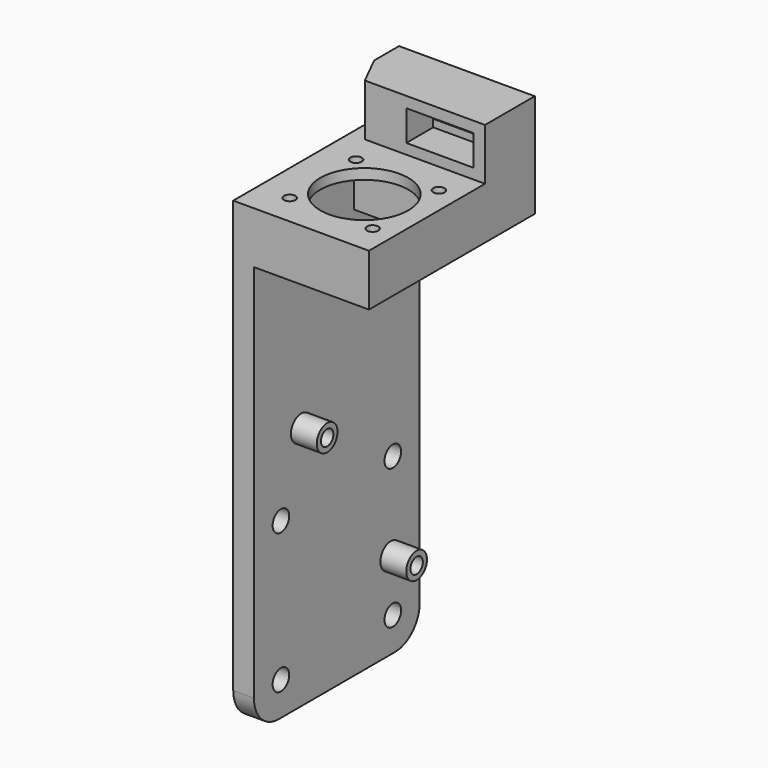
from build123d import *

# Parameters (mm, degrees)
PAD008_DEPTH    = 4
PAD009_DEPTH    = 22.2
SKETCH_R        = 2
SKETCH_R_2      = 1.5
POCKET_DEPTH    = 26.201
SKETCH016_W     = 20.2
SKETCH016_H     = 20.2
POCKET001_DEPTH = 8
SKETCH017_R     = 1.1
SKETCH017_R_2   = 8.5
POCKET002_DEPTH = 50
SKETCH018_W     = 5.9
SKETCH018_H     = 13
POCKET003_DEPTH = 6.5
SKETCH019_W     = 3
SKETCH019_H     = 13
POCKET004_DEPTH = 5.501
SKETCH020_W     = 3
SKETCH020_H     = 13
POCKET005_DEPTH = 40
SKETCH021_R     = 5
POCKET006_DEPTH = 3
FILLET_R        = 6
SKETCH022_R     = 2.5
SKETCH022_R_2   = 1.5
PAD_DEPTH       = 5
CHAMFER_SIZE2   = 3
CHAMFER_SIZE    = 6


with BuildPart() as part:
    # Sketch013 → Pad008 (new body)
    with BuildSketch(Plane.YZ):
        Polygon((20, -89.25), (-20, -89.25), (-20, 0), (8, 0), (8, 10), (20, 10), align=None)
    extrude(amount=PAD008_DEPTH)

    # Sketch015 (on Face8 of Pad008) → Pad009 (join)
    with BuildSketch(Plane.YZ.offset(4)):
        Polygon((20, 10), (8, 10), (8, 0), (-20, 0), (-20, -10), (20, -10), align=None)
    extrude(amount=PAD009_DEPTH)

    # Sketch (on Face4 of Pad009) → Pocket (cut, through all)
    with BuildSketch(Plane(origin=(0, 0, 0), x_dir=(0, 1, 0), z_dir=(-1, 0, 0))):
        with Locations((-13.5, 82.75)):
            Circle(SKETCH_R)
        with Locations((13.5, 82.75)):
            Circle(SKETCH_R)
        with Locations((13.5, 55.75)):
            Circle(SKETCH_R)
        with Locations((-13.5, 55.75)):
            Circle(SKETCH_R)
        with Locations((13, 72.48)):
            Circle(SKETCH_R_2)
        with Locations((-8.59, 42)):
            Circle(SKETCH_R_2)
    extrude(amount=-POCKET_DEPTH, mode=Mode.SUBTRACT)

    # Sketch016 (on Face17 of Pocket) → Pocket001 (cut)
    with BuildSketch(Plane.YX.offset(10)):
        with Locations((-6, 14.1)):
            Rectangle(SKETCH016_W, SKETCH016_H)
    extrude(amount=-POCKET001_DEPTH, mode=Mode.SUBTRACT)

    # Sketch017 (on Face19 of Pocket001) → Pocket002 (cut)
    with BuildSketch(Plane(origin=(0, 0, 10), x_dir=(0, -1, 0), z_dir=(0, 0, 1))):
        with Locations((-2, 6.1)):
            Circle(SKETCH017_R)
        with Locations((14, 6.1)):
            Circle(SKETCH017_R)
        with Locations((14, 22.1)):
            Circle(SKETCH017_R)
        with Locations((-2, 22.1)):
            Circle(SKETCH017_R)
        with Locations((6, 14.1)):
            Circle(SKETCH017_R_2)
    extrude(amount=-POCKET002_DEPTH, mode=Mode.SUBTRACT)

    # Sketch018 (on Face22 of Pocket002) → Pocket003 (cut)
    with BuildSketch(Plane(origin=(0, 8, 0), x_dir=(0, 0, -1), z_dir=(0, -1, 0))):
        with Locations((-4.95, 17.5)):
            Rectangle(SKETCH018_W, SKETCH018_H)
    extrude(amount=-POCKET003_DEPTH, mode=Mode.SUBTRACT)

    # Sketch019 (on Face36 of Pocket003) → Pocket004 (cut, through all)
    with BuildSketch(Plane(origin=(0, 14.5, 0), x_dir=(0, 0, -1), z_dir=(0, -1, 0))):
        with Locations((-4.95, 17.5)):
            Rectangle(SKETCH019_W, SKETCH019_H)
    extrude(amount=-POCKET004_DEPTH, mode=Mode.SUBTRACT)

    # Sketch020 (on Face23 of Pocket004) → Pocket005 (cut)
    with BuildSketch(Plane(origin=(0, 0, 3.45), x_dir=(0, -1, 0), z_dir=(0, 0, 1))):
        with Locations((-17.5, 17.5)):
            Rectangle(SKETCH020_W, SKETCH020_H)
    extrude(amount=-POCKET005_DEPTH, mode=Mode.SUBTRACT)

    # Sketch021 (on Face4 of Pocket005) → Pocket006 (cut)
    with BuildSketch(Plane(origin=(0, 0, 0), x_dir=(0, 1, 0), z_dir=(-1, 0, 0))):
        with Locations((-8.59, 42)):
            Circle(SKETCH021_R)
        with Locations((13, 72.48)):
            Circle(SKETCH021_R)
    extrude(amount=-POCKET006_DEPTH, mode=Mode.SUBTRACT)

    # Fillet
    fillet_edges = [part.edges().sort_by_distance(p)[0] for p in [
        (2, -20, -89.25),
        (2, 20, -89.25),
    ]]
    fillet(fillet_edges, radius=FILLET_R)

    # Sketch022 → Pad (join)
    with BuildSketch(Plane.YZ.offset(4)):
        with Locations((-8.59, -42)):
            Circle(SKETCH022_R)
        with Locations((-8.59, -42)):
            Circle(SKETCH022_R_2, mode=Mode.SUBTRACT)
        with Locations((13, -72.48)):
            Circle(SKETCH022_R)
        with Locations((13, -72.48)):
            Circle(SKETCH022_R_2, mode=Mode.SUBTRACT)
    extrude(amount=PAD_DEPTH)

    # Chamfer
    chamfer_edges = [part.edges().sort_by_distance(p)[0] for p in [
        (0, 8, 5),
    ]]
    chamfer_side = part.faces().sort_by_distance((0, 0.384644, -41.786068))[0]
    chamfer(chamfer_edges, length=CHAMFER_SIZE, length2=CHAMFER_SIZE2, reference=chamfer_side)


solid = part.part
